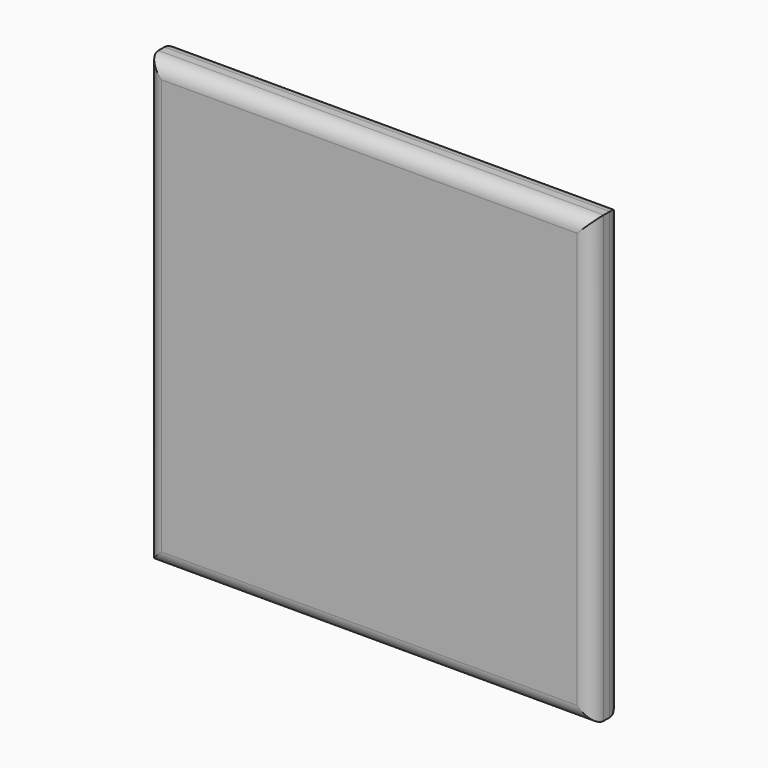
from build123d import *

# Parameters (mm, degrees)
F0_W     = 152.4
F0_H     = 152.4
F1_DEPTH = 12.7
F2_R     = 5.08


with BuildPart() as f1:
    # F0 (on Front) → F1 (new body)
    with BuildSketch(Plane.XZ):
        Rectangle(F0_W, F0_H)
    extrude(amount=F1_DEPTH)

    # F2
    f2_edges = [f1.edges().sort_by_distance(p)[0] for p in [
        (76.2, -12.7, 0),
        (0, -12.7, 76.2),
        (-76.2, 0, 0),
        (0, -12.7, -76.2),
        (-76.2, -12.7, 0),
        (0, 0, -76.2),
        (76.2, 0, 0),
        (0, 0, 76.2),
    ]]
    fillet(f2_edges, radius=F2_R)


solid = f1.part
